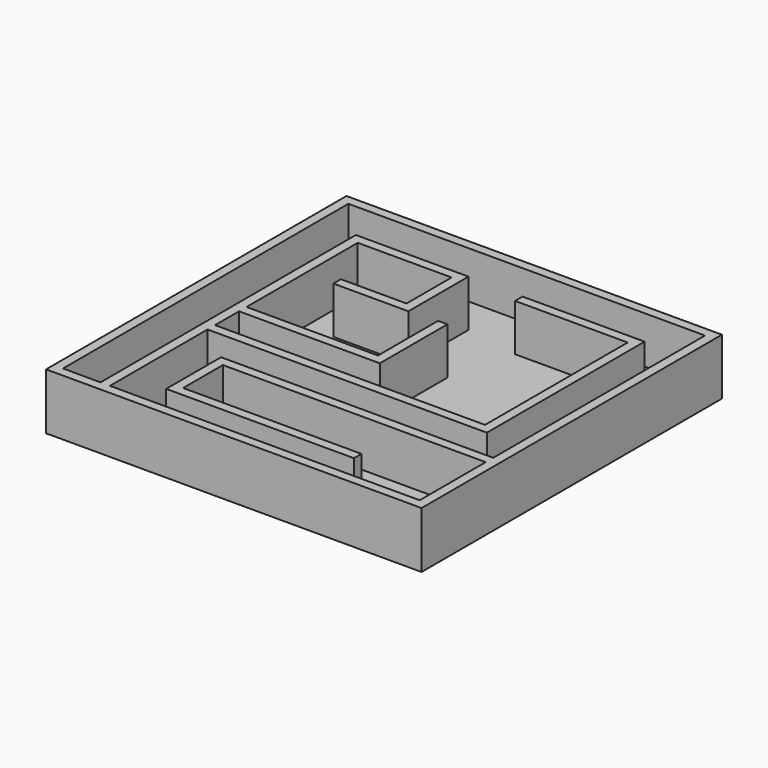
from build123d import *

# Parameters (mm, degrees)
F0_W       = 50.8
F0_H       = 50.8
F1_DEPTH   = 7.62
F2_T       = -1.27
F3_W       = 1.27
F3_H       = 43.18
F4_DEPTH   = 6.35
F5_R       = 1.27
F6_DEPTH   = 25.4
F7_W       = 12.7
F7_H       = 1.27
F8_DEPTH   = 6.35
F9_R       = 1.27
F10_DEPTH  = 25.4
F11_W      = 15.24
F11_H      = 1.27
F11_W_2    = 17.78
F12_DEPTH  = 6.35
F13_W      = 35.56
F13_H      = 1.279007
F13_R      = 1.27
F14_DEPTH  = 6.35
F14_FACE_R = 1.27
F15_DEPTH  = 25.4


with BuildPart() as f1:
    # F0 (on Top) → F1 (new body)
    with BuildSketch(Plane.XY):
        with Locations((25.4, 25.4)):
            Rectangle(F0_W, F0_H)
    extrude(amount=F1_DEPTH)

    # F2
    f2_openings = [f1.faces().sort_by_distance(p)[0] for p in [
        (25.4, 25.4, 7.62),
    ]]
    offset(amount=F2_T, openings=f2_openings)

    # F3 (on face) → F4 (join)
    with BuildSketch(Plane.XY.offset(1.27)):
        with Locations((6.985, 22.86)):
            Rectangle(F3_W, F3_H)
    extrude(amount=F4_DEPTH)

    # F5 (on face) → F6 (cut)
    with BuildSketch(Plane.XY.offset(1.27)):
        with Locations((3.532713, 9.804559)):
            Circle(F5_R)
        with Locations((3.532713, 4.248444)):
            Circle(F5_R)
    extrude(amount=-F6_DEPTH, mode=Mode.SUBTRACT)

    # F7 (on face) → F8 (join)
    with BuildSketch(Plane.XY.offset(1.27)):
        with Locations((13.97, 43.815)):
            Rectangle(F7_W, F7_H)
        Polygon((21.59, 44.45), (20.32, 44.45), (20.32, 43.18), (20.32, 35.56), (21.59, 35.56), align=None)
        Polygon((21.59, 35.56), (20.32, 35.56), (11.43, 35.56), (11.43, 34.29), (21.59, 34.29), align=None)
    extrude(amount=F8_DEPTH)

    # F9 (on face) → F10 (cut)
    with BuildSketch(Plane.XY.offset(1.27)):
        with Locations((17.22843, 39.37)):
            Circle(F9_R)
    extrude(amount=-F10_DEPTH, mode=Mode.SUBTRACT)

    # F11 (on face) → F12 (join)
    with BuildSketch(Plane.XY.offset(1.27)):
        with Locations((36.5252, 43.815)):
            Rectangle(F11_W, F11_H)
        Polygon((44.1452, 44.45), (44.1452, 43.18), (44.1452, 19.05), (45.4152, 19.05), (45.4152, 44.45), align=None)
        Polygon((45.4152, 19.05), (44.1452, 19.05), (7.62, 19.05), (7.62, 17.78), (45.4152, 17.78), align=None)
        with Locations((16.51, 23.743602)):
            Rectangle(F11_W_2, F11_H)
        Polygon((25.4, 34.538602), (25.4, 24.378602), (25.4, 23.108602), (26.67, 23.108602), (26.67, 34.538602), align=None)
    extrude(amount=F12_DEPTH)

    # F13 (on face) → F14 (join)
    with BuildSketch(Plane.XY.offset(1.27)):
        Polygon((13.97, 12.436993), (13.97, 13.716), (12.7, 13.716), (12.7, 5.715), (13.97, 5.715), align=None)
        with Locations((31.75, 13.076496)):
            Rectangle(F13_W, F13_H)
        Polygon((13.97, 5.715), (12.7, 5.715), (12.7, 4.445), (38.1, 4.445), (38.1, 5.715), align=None)
        with Locations((17.586783, 9.075997)):
            Circle(F13_R)
    extrude(amount=F14_DEPTH)

    # F14_face (on face) → F15 (cut)
    with BuildSketch(Plane(origin=(17.586783, 9.075997, 7.62), x_dir=(1, 0, 0), z_dir=(0, 0, 1))):
        Circle(F14_FACE_R)
    extrude(amount=-F15_DEPTH, mode=Mode.SUBTRACT)


solid = f1.part
